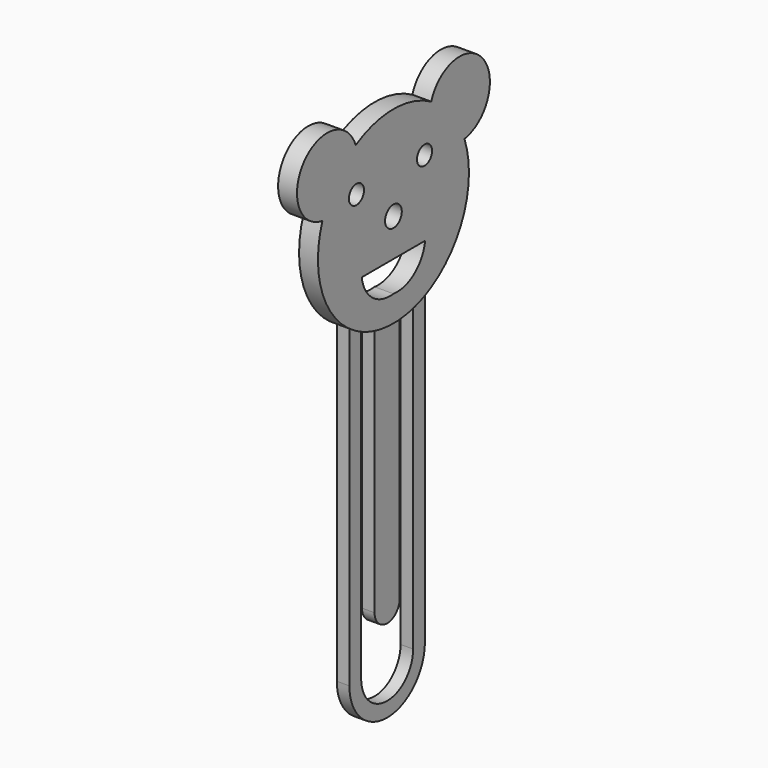
from build123d import *

# Parameters (mm, degrees)
F0_R     = 1.5
F0_R_2   = 1.659812
F1_DEPTH = 3
F2_DEPTH = 2


with BuildPart() as f1:
    # F0 (on Right) → F1 (new body)
    with BuildSketch(Plane.YZ):
        with BuildLine():
            ThreePointArc((7.5, 28.876289), (12.990381, 34.36667), (15, 41.86667))
            ThreePointArc((15, 41.86667), (14.776517, 44.446311), (14.112727, 46.949084))
            ThreePointArc((14.112727, 46.949084), (13.929891, 47.430675), (13.730625, 47.905705))
            ThreePointArc((13.730625, 47.905705), (11.506747, 51.489288), (8.373187, 54.312141))
            ThreePointArc((8.373187, 54.312141), (7.940909, 54.592312), (7.499266, 54.857475))
            ThreePointArc((7.499266, 54.857475), (0, 56.86667), (-7.499266, 54.857475))
            ThreePointArc((-7.499266, 54.857475), (-7.940909, 54.592312), (-8.373187, 54.312141))
            ThreePointArc((-8.373187, 54.312141), (-11.506747, 51.489288), (-13.730625, 47.905705))
            ThreePointArc((-13.730625, 47.905705), (-13.929891, 47.430675), (-14.112727, 46.949084))
            ThreePointArc((-14.112727, 46.949084), (-14.086659, 36.712446), (-7.5, 28.876289))
            ThreePointArc((-7.5, 28.876289), (-6.353678, 28.278779), (-5.160167, 27.782187))
            ThreePointArc((-5.160167, 27.782187), (-3.846303, 27.368189), (-2.5, 27.076471))
            ThreePointArc((-2.5, 27.076471), (0, 26.86667), (2.5, 27.076471))
            ThreePointArc((2.5, 27.076471), (3.846303, 27.368189), (5.160167, 27.782187))
            ThreePointArc((5.160167, 27.782187), (6.353678, 28.278779), (7.5, 28.876289))
        make_face()
        with Locations((-7.350161, 47.905705)):
            Circle(F0_R, mode=Mode.SUBTRACT)
        with BuildLine():
            Line((-6.304995, 35.881981), (0, 35.881981))
            Line((0, 35.881981), (6.304995, 35.881981))
            ThreePointArc((6.304995, 35.881981), (4.156098, 32.147498), (0, 31.011291))
            ThreePointArc((0, 31.011291), (-4.156098, 32.147498), (-6.304995, 35.881981))
        make_face(mode=Mode.SUBTRACT)
        with Locations((0, 41.86667)):
            Circle(F0_R_2, mode=Mode.SUBTRACT)
        with Locations((6.174226, 47.905705)):
            Circle(F0_R, mode=Mode.SUBTRACT)
        with BuildLine():
            ThreePointArc((8.373187, 54.312141), (11.506747, 51.489288), (13.730625, 47.905705))
            ThreePointArc((13.730625, 47.905705), (16.997248, 56.080767), (8.373187, 54.312141))
        make_face()
        with BuildLine():
            ThreePointArc((-13.730625, 47.905705), (-11.506747, 51.489288), (-8.373187, 54.312141))
            ThreePointArc((-8.373187, 54.312141), (-16.997248, 56.080767), (-13.730625, 47.905705))
        make_face()
        with BuildLine():
            ThreePointArc((13.730625, 47.905705), (13.929891, 47.430675), (14.112727, 46.949084))
            ThreePointArc((14.112727, 46.949084), (17.764364, 56.722275), (7.499266, 54.857475))
            ThreePointArc((7.499266, 54.857475), (7.940909, 54.592312), (8.373187, 54.312141))
            ThreePointArc((8.373187, 54.312141), (16.997248, 56.080767), (13.730625, 47.905705))
        make_face()
        with BuildLine():
            ThreePointArc((-8.373187, 54.312141), (-7.940909, 54.592312), (-7.499266, 54.857475))
            ThreePointArc((-7.499266, 54.857475), (-17.764364, 56.722275), (-14.112727, 46.949084))
            ThreePointArc((-14.112727, 46.949084), (-13.929891, 47.430675), (-13.730625, 47.905705))
            ThreePointArc((-13.730625, 47.905705), (-16.997248, 56.080767), (-8.373187, 54.312141))
        make_face()
    extrude(amount=F1_DEPTH)

    # F0 (on Right) → F2 (join)
    with BuildSketch(Plane.YZ):
        with BuildLine():
            Line((2.5, -12.923529), (2.5, 27.076471))
            ThreePointArc((2.5, 27.076471), (0, 26.86667), (-2.5, 27.076471))
            Line((-2.5, 27.076471), (-2.5, -12.923529))
            ThreePointArc((-2.5, -12.923529), (0, -15.423529), (2.5, -12.923529))
        make_face()
        with BuildLine():
            Line((7.5, -21.123711), (7.5, 28.876289))
            ThreePointArc((7.5, 28.876289), (6.353678, 28.278779), (5.160167, 27.782187))
            Line((5.160167, 27.782187), (5.160167, -21.123711))
            ThreePointArc((5.160167, -21.123711), (0, -26.283878), (-5.160167, -21.123711))
            Line((-5.160167, -21.123711), (-5.160167, 27.782187))
            ThreePointArc((-5.160167, 27.782187), (-6.353678, 28.278779), (-7.5, 28.876289))
            Line((-7.5, 28.876289), (-7.5, -21.123711))
            ThreePointArc((-7.5, -21.123711), (0, -28.623711), (7.5, -21.123711))
        make_face()
    extrude(amount=F2_DEPTH)


solid = f1.part
